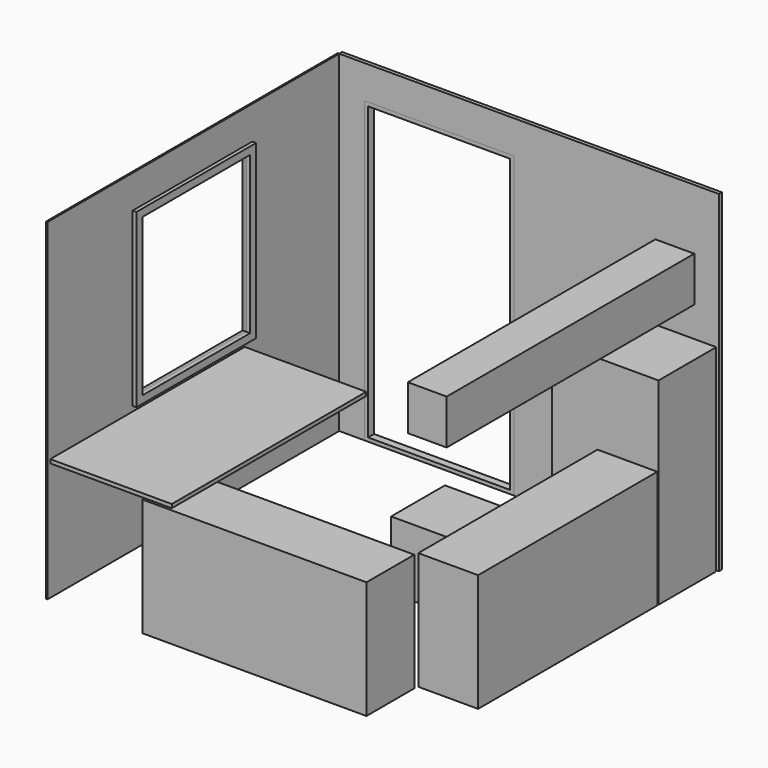
from build123d import *

# Parameters (mm, degrees)
F3_W      = 400
F3_H      = 1498.6
F4_DEPTH  = 787.4
F2_W      = 711.2
F2_H      = 482.6
F5_DEPTH  = 1320.8
F6_W      = 1498.6
F6_H      = 400
F7_DEPTH  = 787.4
F8_W      = 812.8
F8_H      = 1625.6
F9_DEPTH  = 25
F11_W     = 260
F11_H     = 2070
F12_DEPTH = 300
F13_T     = -25
F14_W     = 10
F14_H     = 2438.4
F15_DEPTH = 2222
F16_W     = 1000
F16_H     = 1150
F17_DEPTH = 25
F18_W     = 900
F18_H     = 1050
F19_DEPTH = 50
F20_W     = 2540
F20_H     = 25
F21_DEPTH = 2222
F22_W     = 1000
F22_H     = 50
F23_DEPTH = 2000
F24_W     = 950
F24_H     = 1950
F25_DEPTH = 50
F26_W     = 400
F26_H     = 450
F27_DEPTH = 450


with BuildPart() as f4:
    # F3 (on Top) → F4 (new body)
    with BuildSketch(Plane.XY):
        with Locations((2330, 1186.5)):
            Rectangle(F3_W, F3_H)
    extrude(amount=F4_DEPTH)


with BuildPart() as f5:
    # F2 (on Top) → F5 (new body)
    with BuildSketch(Plane.XY):
        with Locations((2174.4, 2187.1)):
            Rectangle(F2_W, F2_H)
    extrude(amount=F5_DEPTH)


with BuildPart() as f7:
    # F6 (on face) → F7 (new body)
    with BuildSketch(Plane.XY):
        with Locations((1375.7, 210)):
            Rectangle(F6_W, F6_H)
    extrude(amount=F7_DEPTH)


with BuildPart() as f9:
    # F8 (on offset) → F9 (new body)
    with BuildSketch(Plane.XY.offset(800)):
        with Locations((416.4, 822.8)):
            Rectangle(F8_W, F8_H)
    extrude(amount=F9_DEPTH)


with BuildPart() as f12:
    # F11 (on offset) → F12 (new body)
    with BuildSketch(Plane.XY.offset(1650)):
        with Locations((2405, 1203.4)):
            Rectangle(F11_W, F11_H)
    extrude(amount=F12_DEPTH)

    # F13
    f13_openings = [f12.faces().sort_by_distance(p)[0] for p in [
        (2275, 1203.4, 1800),
    ]]
    offset(amount=F13_T, openings=f13_openings)


with BuildPart() as f15:
    # F14 (on Top) → F15 (new body)
    with BuildSketch(Plane.XY):
        with Locations((-5, 1219.2)):
            Rectangle(F14_W, F14_H)
    extrude(amount=F15_DEPTH)


with BuildPart() as f17:
    # F16 (on Right) → F17 (new body, symmetric)
    with BuildSketch(Plane.YZ):
        with Locations((1211.2, 1425)):
            Rectangle(F16_W, F16_H)
    extrude(amount=F17_DEPTH, both=True)


with BuildPart() as f19_tool:
    # F18 (on face) → F19 (new body, symmetric)
    with BuildSketch(Plane.YZ.offset(25)):
        with Locations((1211.2, 1425)):
            Rectangle(F18_W, F18_H)
    extrude(amount=F19_DEPTH, both=True)


with BuildPart() as f15_1:
    add(f15.part)

    # F19: cut by f19_tool
    add(f19_tool.part, mode=Mode.SUBTRACT)

    # F20 (on Top) → F21 (join)
    with BuildSketch(Plane.XY):
        with Locations((1270, 2450.9)):
            Rectangle(F20_W, F20_H)
    extrude(amount=F21_DEPTH)


with BuildPart() as f17_1:
    add(f17.part)

    # F19: cut by f19_tool
    add(f19_tool.part, mode=Mode.SUBTRACT)


with BuildPart() as f23:
    # F22 (on face) → F23 (new body)
    with BuildSketch(Plane.XY):
        with Locations((668.4, 2463.4)):
            Rectangle(F22_W, F22_H)
    extrude(amount=F23_DEPTH)


with BuildPart() as f25_tool:
    # F24 (on face) → F25 (new body, symmetric)
    with BuildSketch(Plane.XZ.offset(-2438.4)):
        with Locations((668.4, 1000)):
            Rectangle(F24_W, F24_H)
    extrude(amount=F25_DEPTH, both=True)


with BuildPart() as f15_2:
    add(f15_1.part)

    # F25: cut by f25_tool
    add(f25_tool.part, mode=Mode.SUBTRACT)


with BuildPart() as f23_1:
    add(f23.part)

    # F25: cut by f25_tool
    add(f25_tool.part, mode=Mode.SUBTRACT)


with BuildPart() as f27:
    # F26 (on face) → F27 (new body)
    with BuildSketch(Plane.XY):
        with Locations((1555, 1403.4)):
            Rectangle(F26_W, F26_H)
    extrude(amount=F27_DEPTH)


solid = Compound([f4.part, f5.part, f7.part, f9.part, f12.part, f17_1.part, f15_2.part, f23_1.part, f27.part])
